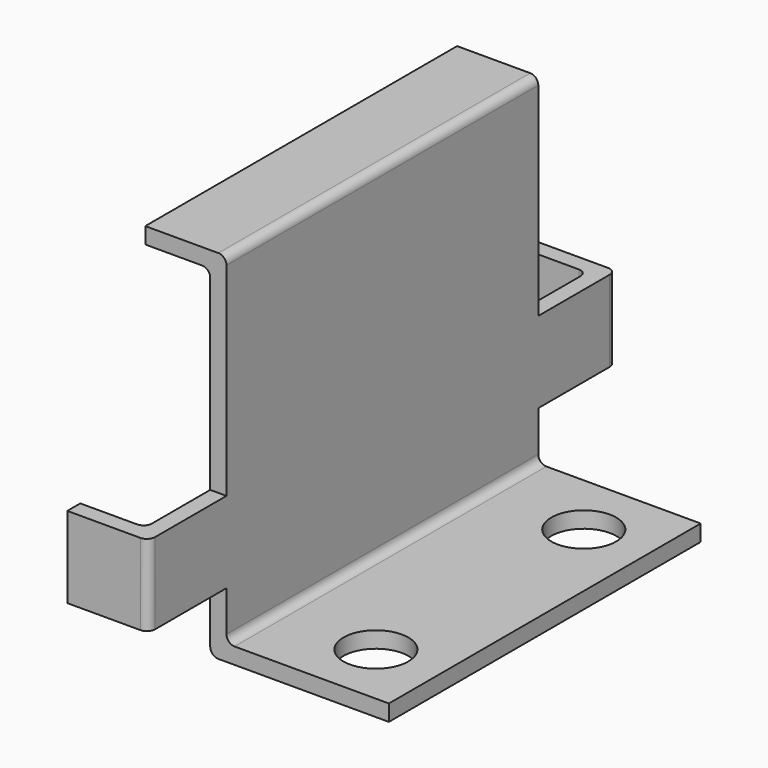
from build123d import *

# Parameters (mm, degrees)
F1_DEPTH = 24
F2_R     = 2
F3_DEPTH = 2
F4_W     = 6
F4_H     = 5
F5_DEPTH = 1
F6_W     = 1
F6_H     = 5
F7_DEPTH = 4
F8_R     = 0.5


with BuildPart() as f1:
    # F0 (on Front) → F1 (new body)
    with BuildSketch(Plane.XZ):
        Polygon((57.043818, 40.345872), (47.043818, 40.345872), (47.043818, 61.345872), (42.043818, 61.345872), (42.043818, 60.345872), (46.043818, 60.345872), (46.043818, 39.345872), (57.043818, 39.345872), align=None)
    extrude(amount=F1_DEPTH)

    # F2 (on face) → F3 (cut)
    with BuildSketch(Plane.XY.offset(40.345872)):
        with Locations((53.043818, -20)):
            Circle(F2_R)
        with Locations((53.043818, -4)):
            Circle(F2_R)
    extrude(amount=-F3_DEPTH, mode=Mode.SUBTRACT)

    # F4 (on face) → F5 (join)
    with BuildSketch(Plane.YZ.offset(47.043818)):
        with Locations((-27, 45.845872)):
            Rectangle(F4_W, F4_H)
        with Locations((3, 45.845872)):
            Rectangle(F4_W, F4_H)
    extrude(amount=-F5_DEPTH)

    # F6 (on face) → F7 (join)
    with BuildSketch(Plane(origin=(46.043818, 0, 0), x_dir=(0, -1, 0), z_dir=(-1, 0, 0))):
        with Locations((-5.5, 45.845872)):
            Rectangle(F6_W, F6_H)
        with Locations((29.5, 45.845872)):
            Rectangle(F6_W, F6_H)
    extrude(amount=F7_DEPTH)

    # F8
    f8_edges = [f1.edges().sort_by_distance(p)[0] for p in [
        (47.043818, -12, 40.345872),
        (46.043818, -12, 39.345872),
        (47.043818, -12, 61.345872),
        (46.043818, -12, 60.345872),
        (47.043818, -30, 45.845872),
        (46.043818, -29, 45.845872),
        (46.043818, 5, 45.845872),
        (47.043818, 6, 45.845872),
    ]]
    fillet(f8_edges, radius=F8_R)


solid = f1.part
